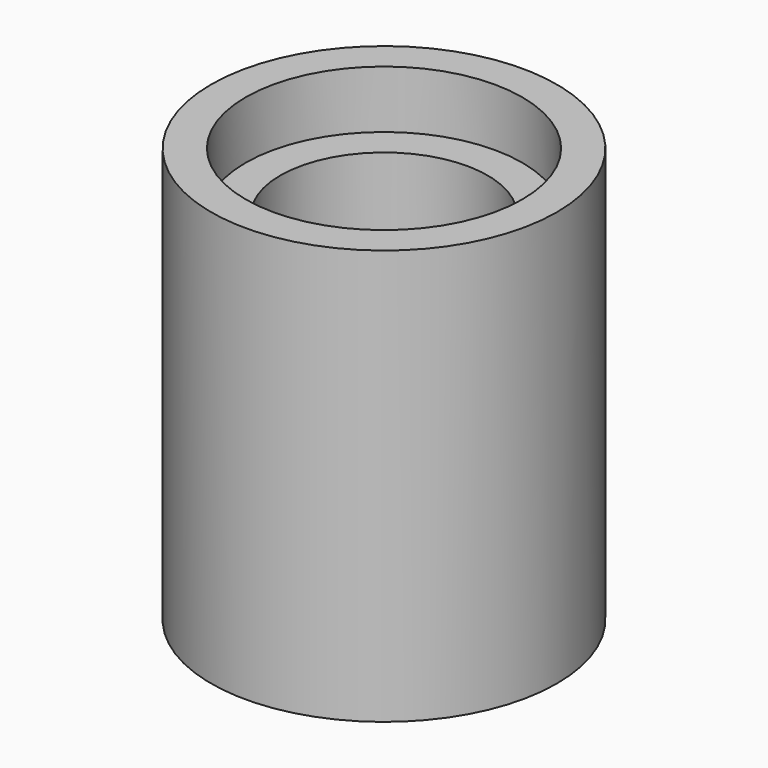
from build123d import *


with BuildPart() as f1:
    # F0 (on Front) → F1 (revolve)
    with BuildSketch(Plane.XZ):
        with BuildLine():
            Line((-15, -4), (0, -4))
            Line((0, -4), (0, 0))
            ThreePointArc((0, 0), (-4.924429, 1.045035), (-9, 4))
            Line((-9, 4), (-9, 27))
            Line((-9, 27), (-12, 27))
            Line((-12, 27), (-12, 32))
            Line((-12, 32), (-15, 32))
            Line((-15, 32), (-15, 29))
            Line((-15, 29), (-15, 4))
            Line((-15, 4), (-15, -4))
        make_face()
    revolve(axis=Axis((0, 0, -2), (0, 0, 1)))


solid = f1.part
